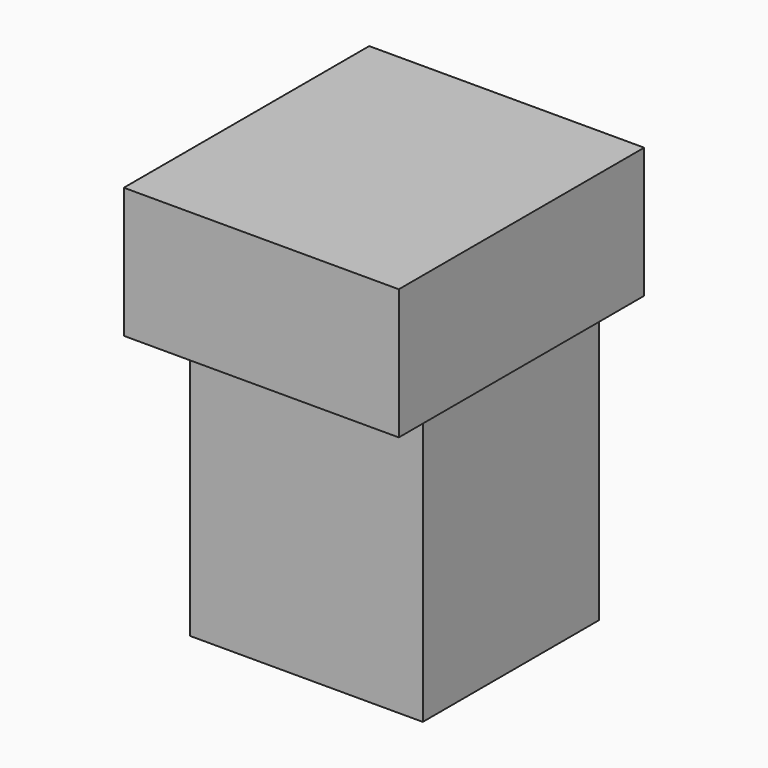
from build123d import *

# Parameters (mm, degrees)
F0_W     = 87
F0_H     = 78
F0_W_2   = 62.5
F0_H_2   = 66
F1_DEPTH = 37
F2_DEPTH = 77
F3_ANGLE = 90


with BuildPart() as f1:
    # F0 (on Top) → F1 (new body)
    with BuildSketch(Plane.XY):
        with Locations((-1.143673, 10.111042)):
            Rectangle(F0_W, F0_H)
        with Locations((-1.143673, 7.111042)):
            Rectangle(F0_W_2, F0_H_2, mode=Mode.SUBTRACT)
        with Locations((-1.143673, 7.111042)):
            Rectangle(F0_W_2, F0_H_2)
    extrude(amount=F1_DEPTH)

    # F0 (on Top) → F2 (join)
    with BuildSketch(Plane.XY):
        with Locations((-1.143673, 7.111042)):
            Rectangle(F0_W_2, F0_H_2)
    extrude(amount=-F2_DEPTH)


with BuildPart() as f1_1:
    # F3: moved
    add(f1.part.rotate(Axis((-32.393673, -25.888958, -38.5), (0, 0, 1)), F3_ANGLE))


solid = f1_1.part
